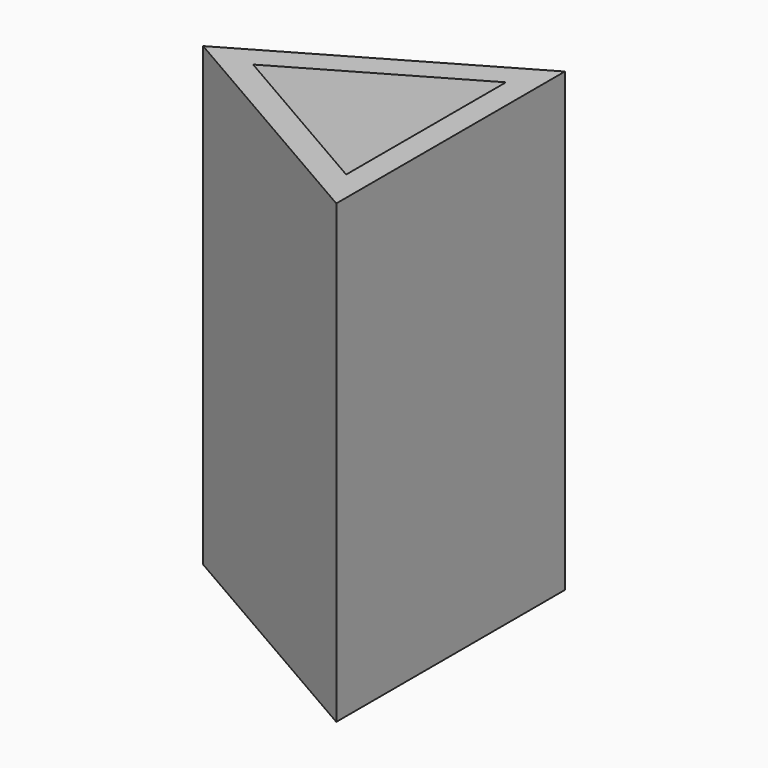
from build123d import *

# Parameters (mm, degrees)
F1_DEPTH = 101.6


with BuildPart() as f1:
    # F0 (on Top) → F1 (new body, symmetric)
    with BuildSketch(Plane.XY):
        Polygon((39.026089, 63.601156), (-71.134344, 0), (39.026089, -63.601156), align=None)
        Polygon((28.107112, -44.45), (-48.882547, 0), (28.107112, 44.45), align=None, mode=Mode.SUBTRACT)
    extrude(amount=F1_DEPTH, both=True)


solid = f1.part
